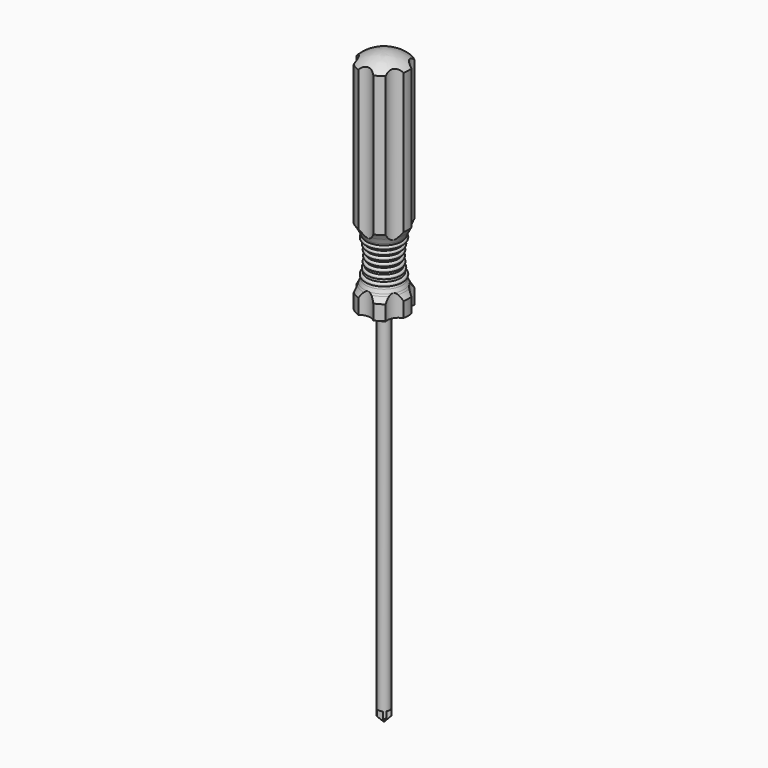
from build123d import *

# Parameters (mm, degrees)
F5_DEPTH = 59.56429
F8_DEPTH = 3.175


with BuildPart() as f1:
    # F0 (on Front) → F1 (revolve)
    with BuildSketch(Plane.XZ):
        with BuildLine():
            Line((-6.35, 57.15), (-6.35, 0))
            Line((-6.35, 0), (-1.524, 0))
            Line((-1.524, 0), (-1.524, -95.096783))
            Line((-1.524, -95.096783), (0, -96.620783))
            Line((0, -96.620783), (0, 0))
            Line((0, 0), (0, 59.55046))
            ThreePointArc((0, 59.55046), (-3.428779, 59.021557), (-6.35, 57.15))
        make_face()
    revolve(axis=Axis((0, 0, 29.77523), (0, 0, 1)))

    # F2 (on Front) → F3 (revolve, cut)
    with BuildSketch(Plane.XZ):
        with BuildLine():
            ThreePointArc((-5.512579, 18.706755), (-6.173738, 19.817061), (-6.933486, 20.862382))
            Line((-6.933486, 20.862382), (-17.623123, 12.033812))
            Line((-17.623123, 12.033812), (-6.933486, 3.205243))
            ThreePointArc((-6.933486, 3.205243), (-6.173738, 4.250564), (-5.512579, 5.36087))
            ThreePointArc((-5.512579, 5.36087), (-5.39008, 5.595001), (-5.271977, 5.83138))
            ThreePointArc((-5.271977, 5.83138), (-5.065484, 6.273721), (-4.87438, 6.722926))
            ThreePointArc((-4.87438, 6.722926), (-4.771357, 6.984631), (-4.673559, 7.248333))
            ThreePointArc((-4.673559, 7.248333), (-4.996447, 7.865223), (-4.374821, 8.178897))
            ThreePointArc((-4.374821, 8.178897), (-4.299503, 8.455401), (-4.229803, 8.733374))
            ThreePointArc((-4.229803, 8.733374), (-4.594403, 9.306123), (-4.034773, 9.690556))
            ThreePointArc((-4.034773, 9.690556), (-3.993998, 9.947707), (-3.957964, 10.205565))
            ThreePointArc((-3.957964, 10.205565), (-4.431421, 10.73947), (-3.865448, 11.174086))
            ThreePointArc((-3.865448, 11.174086), (-3.855349, 11.360087), (-3.847701, 11.546205))
            ThreePointArc((-3.847701, 11.546205), (-4.326972, 12.033812), (-3.847701, 12.52142))
            ThreePointArc((-3.847701, 12.52142), (-3.85761, 12.75337), (-3.871325, 12.985127))
            ThreePointArc((-3.871325, 12.985127), (-4.409496, 13.420353), (-3.970451, 13.955412))
            ThreePointArc((-3.970451, 13.955412), (-4.001022, 14.166483), (-4.034773, 14.377069))
            ThreePointArc((-4.034773, 14.377069), (-4.594403, 14.761502), (-4.229803, 15.334251))
            ThreePointArc((-4.229803, 15.334251), (-4.299503, 15.612224), (-4.374821, 15.888728))
            ThreePointArc((-4.374821, 15.888728), (-4.996447, 16.202402), (-4.673559, 16.819292))
            ThreePointArc((-4.673559, 16.819292), (-4.771357, 17.082994), (-4.87438, 17.344699))
            ThreePointArc((-4.87438, 17.344699), (-5.175358, 18.034218), (-5.512579, 18.706755))
        make_face()
        Polygon((-5.125105, -0.972597), (-6.933486, 0.525736), (-6.933486, -0.972597), align=None)
    revolve(axis=Axis((0, 0, 43.63884), (0, 0, 1)), mode=Mode.SUBTRACT)

    # F4 (on Top) → F5 (cut, through all)
    with BuildSketch(Plane.XY):
        with BuildLine():
            Line((0, 8.151261), (-1.990195, 6.040884))
            ThreePointArc((-1.990195, 6.040884), (0, 5.250474), (1.990195, 6.040884))
            Line((1.990195, 6.040884), (0, 8.151261))
        make_face()
        with BuildLine():
            Line((-7.059199, 4.07563), (-6.226657, 1.296882))
            ThreePointArc((-6.226657, 1.296882), (-4.547043, 2.625237), (-4.236462, 4.744002))
            Line((-4.236462, 4.744002), (-7.059199, 4.07563))
        make_face()
        with BuildLine():
            Line((-7.059199, -4.07563), (-4.236462, -4.744002))
            ThreePointArc((-4.236462, -4.744002), (-4.547043, -2.625237), (-6.226657, -1.296882))
            Line((-6.226657, -1.296882), (-7.059199, -4.07563))
        make_face()
        with BuildLine():
            Line((0, -8.151261), (1.990195, -6.040884))
            ThreePointArc((1.990195, -6.040884), (0, -5.250474), (-1.990195, -6.040884))
            Line((-1.990195, -6.040884), (0, -8.151261))
        make_face()
        with BuildLine():
            Line((7.059199, -4.07563), (6.226657, -1.296882))
            ThreePointArc((6.226657, -1.296882), (4.547043, -2.625237), (4.236462, -4.744002))
            Line((4.236462, -4.744002), (7.059199, -4.07563))
        make_face()
        with BuildLine():
            Line((7.059199, 4.07563), (4.236462, 4.744002))
            ThreePointArc((4.236462, 4.744002), (4.547043, 2.625237), (6.226657, 1.296882))
            Line((6.226657, 1.296882), (7.059199, 4.07563))
        make_face()
    extrude(amount=F5_DEPTH, mode=Mode.SUBTRACT)

    # F7 (on offset) → F8 (cut)
    with BuildSketch(Plane.XY.offset(-96.5708)):
        with BuildLine():
            ThreePointArc((0.137065, -0.227737), (0, -0.154124), (-0.137065, -0.227737))
            Line((-0.137065, -0.227737), (-0.144404, -0.23993))
            Line((-0.144404, -0.23993), (-0.888849, -1.476846))
            ThreePointArc((-0.888849, -1.476846), (0, -1.723696), (0.888849, -1.476846))
            Line((0.888849, -1.476846), (0.144404, -0.23993))
            Line((0.144404, -0.23993), (0.137065, -0.227737))
        make_face()
        with BuildLine():
            Line((-0.144404, -0.23993), (-0.137065, -0.227737))
            ThreePointArc((-0.137065, -0.227737), (-0.140866, -0.233754), (-0.144404, -0.23993))
        make_face()
        with BuildLine():
            ThreePointArc((0.144404, -0.23993), (0.140866, -0.233754), (0.137065, -0.227737))
            Line((0.137065, -0.227737), (0.144404, -0.23993))
        make_face()
        with BuildLine():
            ThreePointArc((0.227737, 0.137065), (0.154124, 0), (0.227737, -0.137065))
            Line((0.227737, -0.137065), (0.23993, -0.144404))
            Line((0.23993, -0.144404), (1.476846, -0.888849))
            ThreePointArc((1.476846, -0.888849), (1.723696, 0), (1.476846, 0.888849))
            Line((1.476846, 0.888849), (0.23993, 0.144404))
            Line((0.23993, 0.144404), (0.227737, 0.137065))
        make_face()
        with BuildLine():
            Line((0.23993, -0.144404), (0.227737, -0.137065))
            ThreePointArc((0.227737, -0.137065), (0.233754, -0.140866), (0.23993, -0.144404))
        make_face()
        with BuildLine():
            ThreePointArc((0.23993, 0.144404), (0.233754, 0.140866), (0.227737, 0.137065))
            Line((0.227737, 0.137065), (0.23993, 0.144404))
        make_face()
        with BuildLine():
            ThreePointArc((-0.137065, 0.227737), (0, 0.154124), (0.137065, 0.227737))
            Line((0.137065, 0.227737), (0.144404, 0.23993))
            Line((0.144404, 0.23993), (0.888849, 1.476846))
            ThreePointArc((0.888849, 1.476846), (0, 1.723696), (-0.888849, 1.476846))
            Line((-0.888849, 1.476846), (-0.144404, 0.23993))
            Line((-0.144404, 0.23993), (-0.137065, 0.227737))
        make_face()
        with BuildLine():
            Line((0.144404, 0.23993), (0.137065, 0.227737))
            ThreePointArc((0.137065, 0.227737), (0.140866, 0.233754), (0.144404, 0.23993))
        make_face()
        with BuildLine():
            ThreePointArc((-0.144404, 0.23993), (-0.140866, 0.233754), (-0.137065, 0.227737))
            Line((-0.137065, 0.227737), (-0.144404, 0.23993))
        make_face()
        with BuildLine():
            ThreePointArc((-0.227737, -0.137065), (-0.154124, 0), (-0.227737, 0.137065))
            Line((-0.227737, 0.137065), (-0.23993, 0.144404))
            Line((-0.23993, 0.144404), (-1.476846, 0.888849))
            ThreePointArc((-1.476846, 0.888849), (-1.723696, 0), (-1.476846, -0.888849))
            Line((-1.476846, -0.888849), (-0.23993, -0.144404))
            Line((-0.23993, -0.144404), (-0.227737, -0.137065))
        make_face()
        with BuildLine():
            Line((-0.23993, 0.144404), (-0.227737, 0.137065))
            ThreePointArc((-0.227737, 0.137065), (-0.233754, 0.140866), (-0.23993, 0.144404))
        make_face()
        with BuildLine():
            ThreePointArc((-0.23993, -0.144404), (-0.233754, -0.140866), (-0.227737, -0.137065))
            Line((-0.227737, -0.137065), (-0.23993, -0.144404))
        make_face()
    extrude(amount=F8_DEPTH, mode=Mode.SUBTRACT)


solid = f1.part
